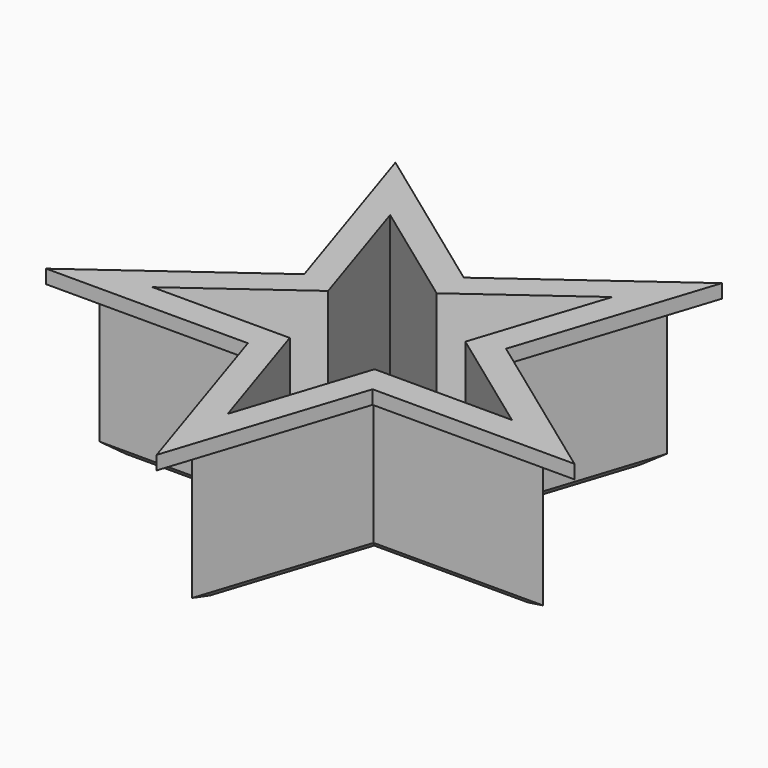
from build123d import *

# Parameters (mm, degrees)
F1_DEPTH = 25.4
F3_DEPTH = 2.54
F4_SIZE  = 1.27


with BuildPart() as f1:
    # F0 (on Top) → F1 (new body)
    with BuildSketch(Plane.XY):
        Polygon((0, 16.505921), (-25.4, 34.960101), (-15.698063, 5.10061), (-41.098063, -13.35357), (-9.701937, -13.35357), (0, -43.213061), (9.701937, -13.35357), (41.098063, -13.35357), (15.698063, 5.10061), (25.4, 34.960101), align=None)
        Polygon((-12.712114, 4.130416), (-20.568633, 28.310294), (0, 13.366308), (20.568633, 28.310294), (12.712114, 4.130416), (33.280747, -10.81357), (7.856519, -10.81357), (0, -34.993448), (-7.856519, -10.81357), (-33.280747, -10.81357), align=None, mode=Mode.SUBTRACT)
    extrude(amount=F1_DEPTH)

    # F2 (on face) → F3 (join)
    with BuildSketch(Plane.XY.offset(25.4)):
        Polygon((18.684012, 6.070804), (30.231367, 41.609907), (0, 19.645533), (-30.231367, 41.609907), (-18.684012, 6.070804), (-48.915379, -15.89357), (-11.547355, -15.89357), (0, -51.432674), (11.547355, -15.89357), (48.915379, -15.89357), align=None)
        Polygon((0, 16.505921), (25.4, 34.960101), (15.698063, 5.10061), (41.098063, -13.35357), (9.701937, -13.35357), (0, -43.213061), (-9.701937, -13.35357), (-41.098063, -13.35357), (-15.698063, 5.10061), (-25.4, 34.960101), align=None, mode=Mode.SUBTRACT)
        Polygon((15.698063, 5.10061), (25.4, 34.960101), (0, 16.505921), (-25.4, 34.960101), (-15.698063, 5.10061), (-41.098063, -13.35357), (-9.701937, -13.35357), (0, -43.213061), (9.701937, -13.35357), (41.098063, -13.35357), align=None)
        Polygon((-33.280747, -10.81357), (-12.712114, 4.130416), (-20.568633, 28.310294), (0, 13.366308), (20.568633, 28.310294), (12.712114, 4.130416), (33.280747, -10.81357), (7.856519, -10.81357), (0, -34.993448), (-7.856519, -10.81357), align=None, mode=Mode.SUBTRACT)
    extrude(amount=F3_DEPTH)

    # F4
    f4_edges = [f1.edges().sort_by_distance(p)[0] for p in [
        (20.549032, 20.030355, 0),
        (12.7, 25.733011, 0),
        (-12.7, 25.733011, 0),
        (-20.549032, 20.030355, 0),
        (-28.398063, -4.12648, 0),
        (-25.4, -13.35357, 0),
        (-4.850968, -28.283316, 0),
        (4.850968, -28.283316, 0),
        (25.4, -13.35357, 0),
        (28.398063, -4.12648, 0),
    ]]
    chamfer(f4_edges, length=F4_SIZE)


solid = f1.part
